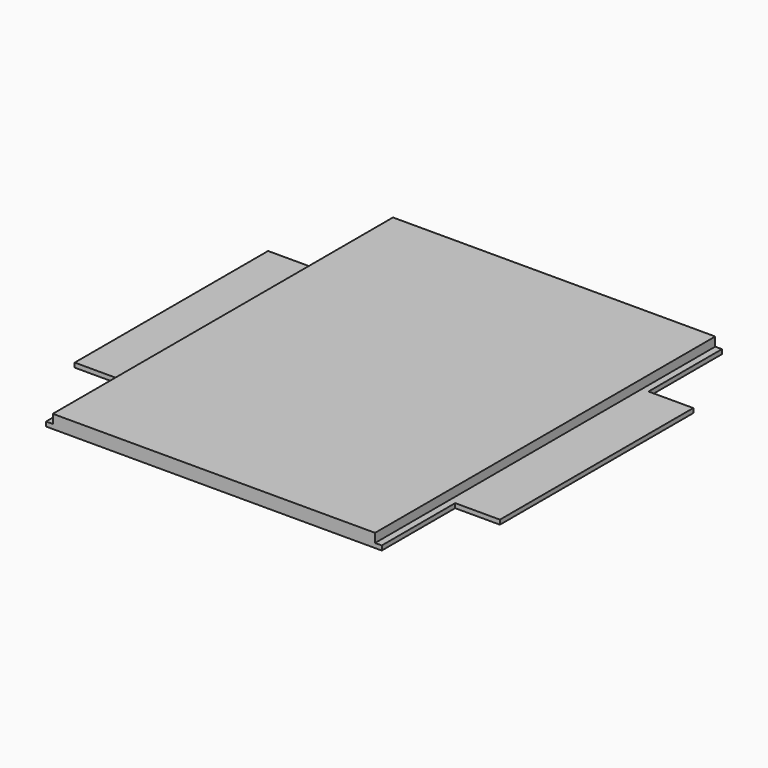
from build123d import *

# Parameters (mm, degrees)
PAD_DEPTH    = 2
SKETCH004_W  = 144
SKETCH004_H  = 190
PAD001_DEPTH = 6


with BuildPart() as part:
    # Sketch001 → Pad (new body)
    with BuildSketch(Plane.XY):
        Polygon((136, 0), (286, 0), (286, 41), (306, 41), (306, 149), (286, 149), (286, 190), (136, 190), (136, 149), (116, 149), (116, 41), (136, 41), align=None)
    extrude(amount=PAD_DEPTH)

    # Sketch004 → Pad001 (join)
    with BuildSketch(Plane.XY):
        with Locations((211, 95)):
            Rectangle(SKETCH004_W, SKETCH004_H)
    extrude(amount=PAD001_DEPTH)


solid = part.part
